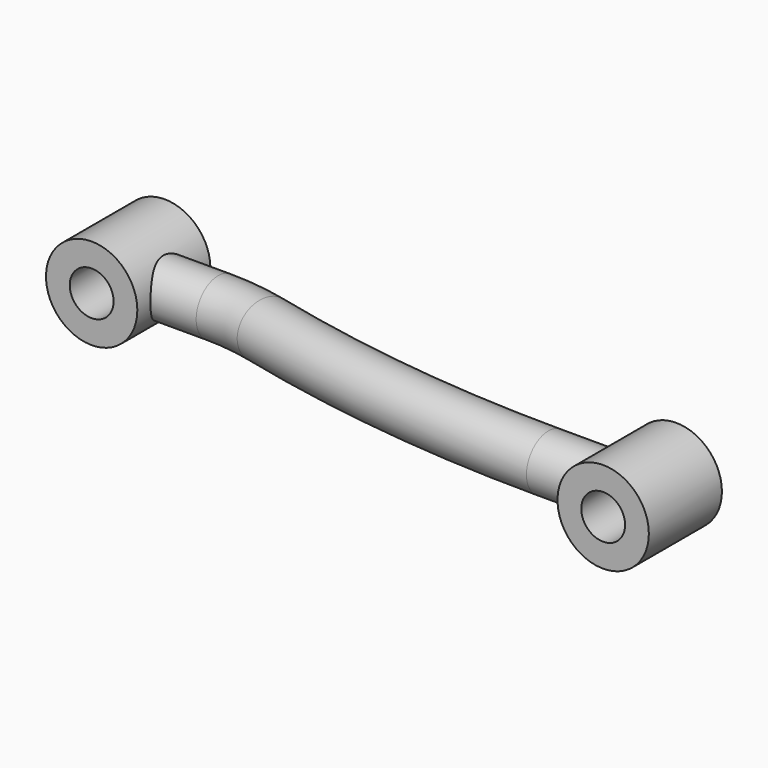
from build123d import *

# Parameters (mm, degrees)
F1_R     = 7.5
F3_R     = 6
F4_DEPTH = 12.5
F3_R_2   = 12.5
F5_DEPTH = 12.5
F6_DEPTH = 25
F7_DEPTH = 25.0010001


with BuildPart() as f2:
    # F2: sweep along a path in F0
    with BuildLine(Plane.XY) as f2_path:
        Line((0, 12), (25, 12))
        ThreePointArc((25, 12), (32.1487132371, 11.5726103092), (39.1955835962, 10.2965299685))
        ThreePointArc((39.1955835962, 10.2965299685), (81.789999989, 2.5833332421), (125, 0))
        Line((125, 0), (150, 0))
    # F1 (on Right) → F2 (sweep)
    with BuildSketch(Plane.YZ):
        with Locations((12, 0)):
            Circle(F1_R)
    sweep(path=f2_path.line)

    # F3 (on Front) → F4 (cut, symmetric)
    with BuildSketch(Plane.XZ):
        with Locations((150, 0)):
            Circle(F3_R)
    extrude(amount=F4_DEPTH, both=True, mode=Mode.SUBTRACT)

    # F3 (on Front) → F5 (join, symmetric)
    with BuildSketch(Plane.XZ):
        with Locations((150, 0)):
            Circle(F3_R_2)
        with Locations((150, 0)):
            Circle(F3_R, mode=Mode.SUBTRACT)
    extrude(amount=F5_DEPTH, both=True)

    # F3 (on Front) → F6 (join)
    with BuildSketch(Plane.XZ):
        Circle(F3_R_2)
        Circle(F3_R, mode=Mode.SUBTRACT)
    extrude(amount=-F6_DEPTH)

    # F3 (on Front) → F7 (cut, through all)
    with BuildSketch(Plane.XZ):
        Circle(F3_R)
    extrude(amount=-F7_DEPTH, mode=Mode.SUBTRACT)


solid = f2.part
